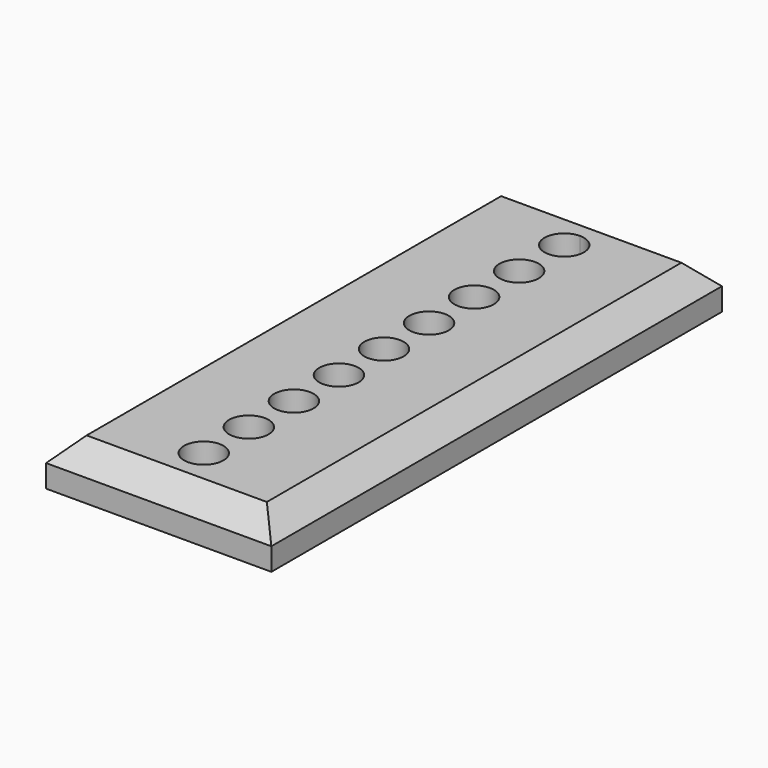
from build123d import *

# Parameters (mm, degrees)
F0_R     = 1.75
F1_DEPTH = 4
F2_SIZE  = 2


with BuildPart() as f1:
    # F0 (on Top) → F1 (new body)
    with BuildSketch(Plane.XY):
        Polygon((-5.627883, 24.507613), (-15.627883, 24.507613), (-15.627883, -25.492387), (-5.627883, -25.492387), (4.372117, -25.492387), (4.372117, 24.507613), align=None)
        with BuildLine():
            ThreePointArc((-3.877883, -20.492387), (-4.390446, -21.729824), (-5.627883, -22.242387))
            ThreePointArc((-5.627883, -22.242387), (-6.86532, -19.254951), (-3.877883, -20.492387))
        make_face(mode=Mode.SUBTRACT)
        with Locations((-5.627883, -15.492387)):
            Circle(F0_R, mode=Mode.SUBTRACT)
        with Locations((-5.627883, -10.492387)):
            Circle(F0_R, mode=Mode.SUBTRACT)
        with Locations((-5.627883, -5.492387)):
            Circle(F0_R, mode=Mode.SUBTRACT)
        with Locations((-5.627883, -0.492387)):
            Circle(F0_R, mode=Mode.SUBTRACT)
        with Locations((-5.627883, 4.507613)):
            Circle(F0_R, mode=Mode.SUBTRACT)
        with Locations((-5.627883, 9.507613)):
            Circle(F0_R, mode=Mode.SUBTRACT)
        with Locations((-5.627883, 14.507613)):
            Circle(F0_R, mode=Mode.SUBTRACT)
        with BuildLine():
            ThreePointArc((-3.877883, 19.507613), (-6.86532, 18.270176), (-5.627883, 21.257613))
            ThreePointArc((-5.627883, 21.257613), (-4.390446, 20.745049), (-3.877883, 19.507613))
        make_face(mode=Mode.SUBTRACT)
    extrude(amount=F1_DEPTH)

    # F2
    f2_edges = [f1.edges().sort_by_distance(p)[0] for p in [
        (-15.627883, -0.492387, 4),
        (-5.627883, -25.492387, 4),
        (4.372117, -0.492387, 4),
        (-5.627883, 24.507613, 4),
    ]]
    chamfer(f2_edges, length=F2_SIZE)


solid = f1.part
